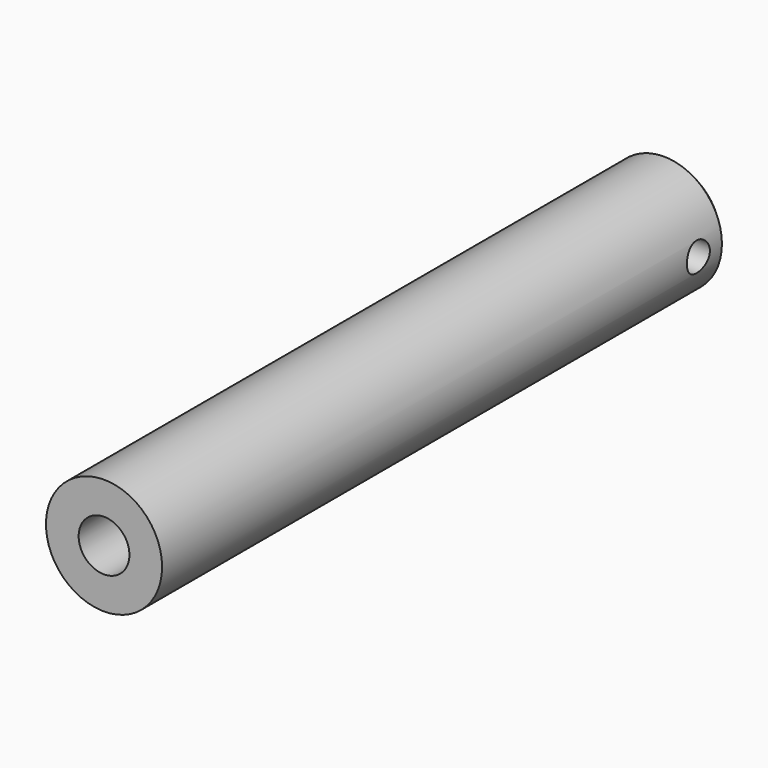
from build123d import *

# Parameters (mm, degrees)
F0_R     = 4.7625
F1_DEPTH = 58.166
F2_R     = 2.0828
F3_DEPTH = 11.43
F5_R     = 1.1811
F6_DEPTH = 10.16
F7_SIZE  = 0.762


with BuildPart() as f1:
    # F0 (on Front) → F1 (new body)
    with BuildSketch(Plane.XZ):
        Circle(F0_R)
    extrude(amount=F1_DEPTH)

    # F2 (on face) → F3 (cut)
    with BuildSketch(Plane.XZ.offset(58.166)):
        Circle(F2_R)
    extrude(amount=-F3_DEPTH, mode=Mode.SUBTRACT)

    # F5 (on offset) → F6 (cut)
    with BuildSketch(Plane.YZ.offset(4.7879)):
        with Locations((-3.175, 0)):
            Circle(F5_R)
    extrude(amount=-F6_DEPTH, mode=Mode.SUBTRACT)

    # F7
    f7_edges = [f1.edges().sort_by_distance(p)[0] for p in [
        (-4.7625, 0, 0),
    ]]
    chamfer(f7_edges, length=F7_SIZE)


solid = f1.part
